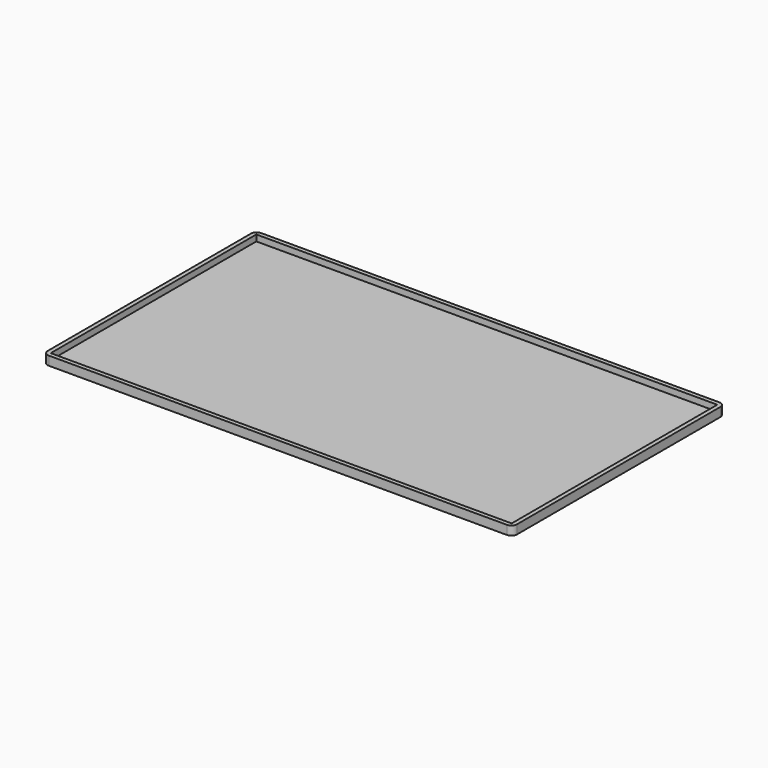
from build123d import *

# Parameters (mm, degrees)
F0_W        = 168
F0_H        = 95
F0_W_2      = 165
F0_H_2      = 92
F1_DEPTH    = 2.2
F1_FACE_W   = 168
F1_FACE_H   = 95
F1_FACE_W_2 = 165
F1_FACE_H_2 = 92
F2_DEPTH    = 1
F3_R        = 2


with BuildPart() as f1:
    # F0 (on Top) → F1 (new body)
    with BuildSketch(Plane.XY):
        Rectangle(F0_W, F0_H)
        Rectangle(F0_W_2, F0_H_2, mode=Mode.SUBTRACT)
    extrude(amount=F1_DEPTH)

    # F1_face (on face) + F0 (on Top) → F2 (join)
    with BuildSketch(Plane(origin=(0, 0, 0), x_dir=(1, 0, 0), z_dir=(0, 0, -1))):
        Rectangle(F1_FACE_W, F1_FACE_H)
        Rectangle(F1_FACE_W_2, F1_FACE_H_2, mode=Mode.SUBTRACT)
    with BuildSketch(Plane.XY):
        Rectangle(F0_W_2, F0_H_2)
    extrude(amount=F2_DEPTH, dir=(0, 0, -1))

    # F3
    f3_edges = [f1.edges().sort_by_distance(p)[0] for p in [
        (-84, -47.5, 0.6),
        (-84, 47.5, 0.6),
        (84, -47.5, 0.6),
        (84, 47.5, 0.6),
    ]]
    fillet(f3_edges, radius=F3_R)


solid = f1.part
